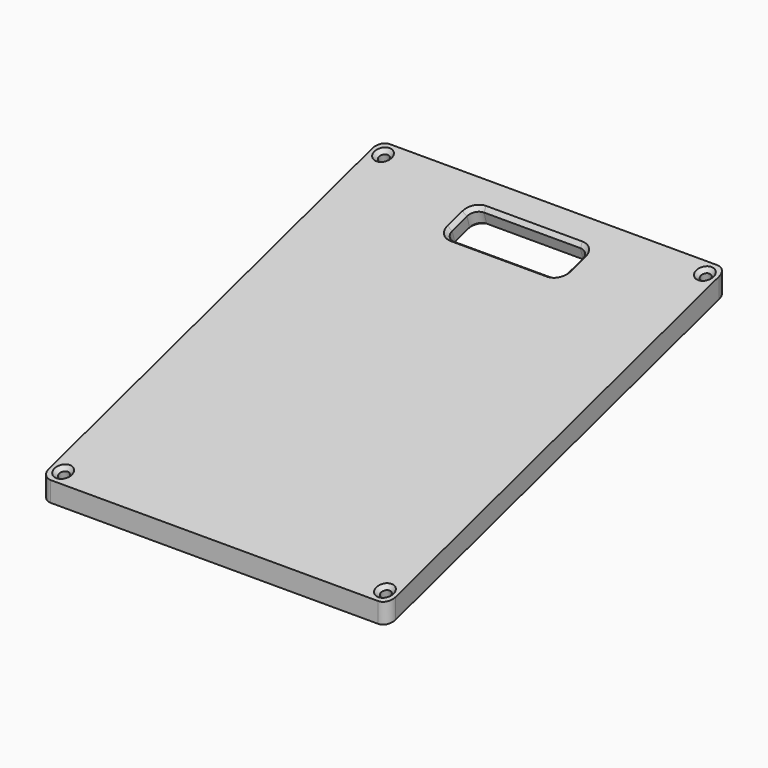
from build123d import *

# Parameters (mm, degrees)
F1_DEPTH = 114.3
F2_R     = 1.5875
F3_DEPTH = 25.4
F4_SIZE  = 1.27
F5_R     = 3.175


with BuildPart() as f1:
    # F0 (on Right) → F1 (new body)
    with BuildSketch(Plane.YZ):
        Polygon((-69.0606392323, 6.6139034851), (-69.0606392323, 0), (70.6393607677, 40.6923843751), (70.6393607677, 47.3062878602), align=None)
    extrude(amount=F1_DEPTH)

    # F2 (on face) → F3 (cut)
    with BuildSketch(Plane(origin=(0, -7.177119146, 24.6395869914), x_dir=(1, 0, 0), z_dir=(0, -0.2796614495, 0.9600986791))):
        with BuildLine():
            Line((73.025, 71.525502), (41.275, 71.525502))
            ThreePointArc((41.275, 71.525502), (39.0299359698, 70.5955660302), (38.1, 68.350502))
            Line((38.1, 68.350502), (38.1, 62.000502))
            ThreePointArc((38.1, 62.000502), (39.0299359697, 59.7554379697), (41.275, 58.825502))
            Line((41.275, 58.825502), (73.025, 58.825502))
            ThreePointArc((73.025, 58.825502), (75.2700640303, 59.7554379697), (76.2, 62.000502))
            Line((76.2, 62.000502), (76.2, 68.350502))
            ThreePointArc((76.2, 68.350502), (75.2700640302, 70.5955660302), (73.025, 71.525502))
        make_face()
        with Locations((4.1148, 76.935702)):
            Circle(F2_R)
        with Locations((110.1852, 76.935702)):
            Circle(F2_R)
        with Locations((110.1852, -60.3405746722)):
            Circle(F2_R)
        with Locations((4.1148, -60.3405746722)):
            Circle(F2_R)
    extrude(amount=-F3_DEPTH, mode=Mode.SUBTRACT)

    # F4
    f4_edges = [f1.edges().sort_by_distance(p)[0] for p in [
        (108.5977, 66.688747, 46.155537),
        (108.5977, -65.110025, 7.764654),
        (2.5273, -65.110025, 7.764654),
        (2.5273, 66.688747, 46.155537),
        (57.15, 61.494421, 44.642513),
        (39.029936, 60.601591, 44.382445),
        (38.1, 55.397794, 42.866662),
        (39.029936, 50.193998, 41.350879),
        (57.15, 49.301168, 41.090812),
        (75.270064, 50.193998, 41.350879),
        (76.2, 55.397794, 42.866662),
        (75.270064, 60.601591, 44.382445),
        (57.15, 51.077018, 34.994186),
        (75.270064, 51.969848, 35.254253),
    ]]
    chamfer(f4_edges, length=F4_SIZE)

    # F5
    f5_edges = [f1.edges().sort_by_distance(p)[0] for p in [
        (114.3, -69.060639, 3.306952),
        (114.3, 70.639361, 43.999336),
        (0, -69.060639, 3.306952),
        (0, 70.639361, 43.999336),
    ]]
    fillet(f5_edges, radius=F5_R)


solid = f1.part
